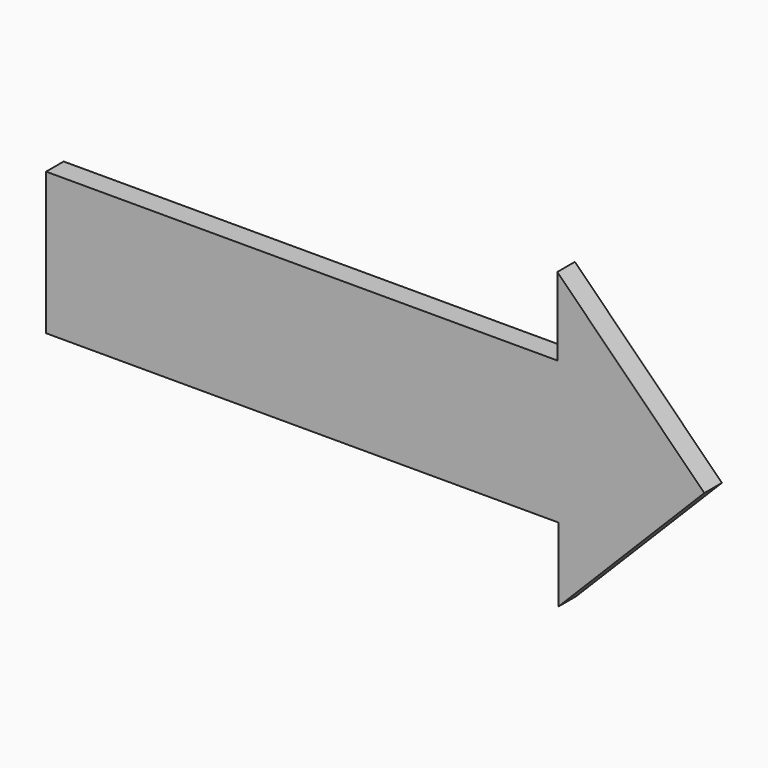
from build123d import *

# Parameters (mm, degrees)
PAD_DEPTH = 3


with BuildPart() as part:
    # Sketch → Pad (new body)
    with BuildSketch(Plane.XZ):
        Polygon((-29.947879, 9.404758), (39.852381, 9.404758), (39.852381, 20.041461), (59.928709, 0), (40.015407, -20.117136), (40.015407, -10.023776), (-29.947879, -10.023776), align=None)
    extrude(amount=PAD_DEPTH)


solid = part.part
